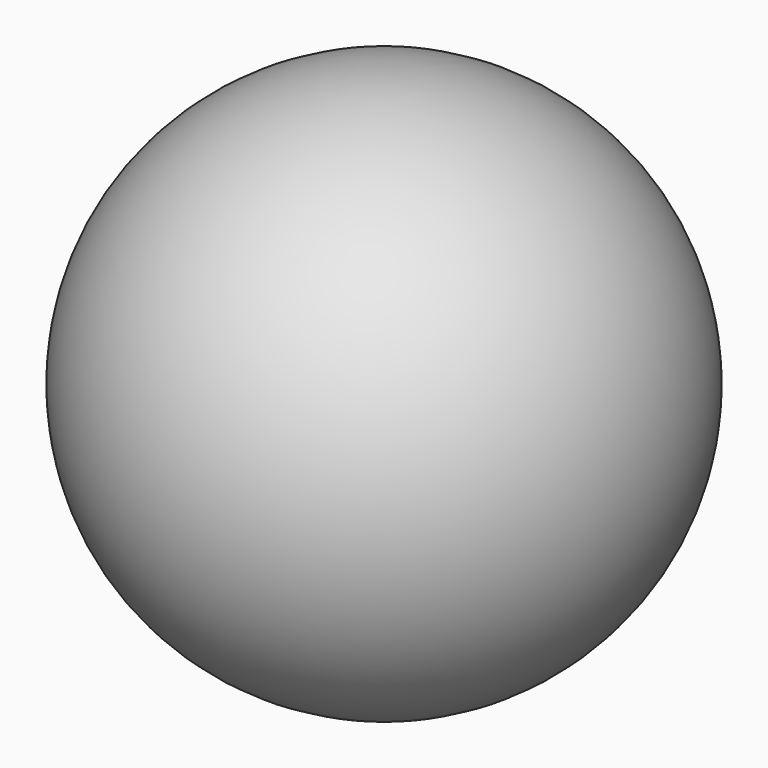
from build123d import *

# Parameters (mm, degrees)
F0_W     = 680
F0_H     = 680
F1_DEPTH = 260
F2_R     = 125
F3_DEPTH = 760
F2_W     = 450
F2_H     = 150
F4_DEPTH = 600


with BuildPart() as f1:
    # F0 (on Top) → F1 (new body)
    with BuildSketch(Plane.XY):
        Rectangle(F0_W, F0_H)
    extrude(amount=F1_DEPTH)

    # F2 (on face) → F3 (join)
    with BuildSketch(Plane.XY.offset(260)):
        with Locations((0, -130)):
            Circle(F2_R)
    extrude(amount=F3_DEPTH)

    # F2 (on face) → F4 (join)
    with BuildSketch(Plane.XY.offset(260)):
        with Locations((0, 200)):
            Rectangle(F2_W, F2_H)
    extrude(amount=F4_DEPTH)

    # F5 (on Right) → F6 (revolve)
    with BuildSketch(Plane.YZ):
        with BuildLine():
            ThreePointArc((-130, 125), (765, 1020), (-130, 1915))
            Line((-130, 1915), (-130, 125))
        make_face()
        with BuildLine():
            Line((-130, 2195), (-130, 2045))
            Line((-130, 2045), (-130, 1915))
            ThreePointArc((-130, 1915), (765, 1020), (-130, 125))
            Line((-130, 125), (-130, -5))
            Line((-130, -5), (-130, -155))
            ThreePointArc((-130, -155), (1045, 1020), (-130, 2195))
        make_face()
        with BuildLine():
            Line((-130, 1915), (-130, 2045))
            ThreePointArc((-130, 2045), (-1155, 1020), (-130, -5))
            Line((-130, -5), (-130, 125))
            Line((-130, 125), (-130, 1915))
        make_face()
    revolve(axis=Axis((0, -130, 1020), (0, 0, -1)))


solid = f1.part
